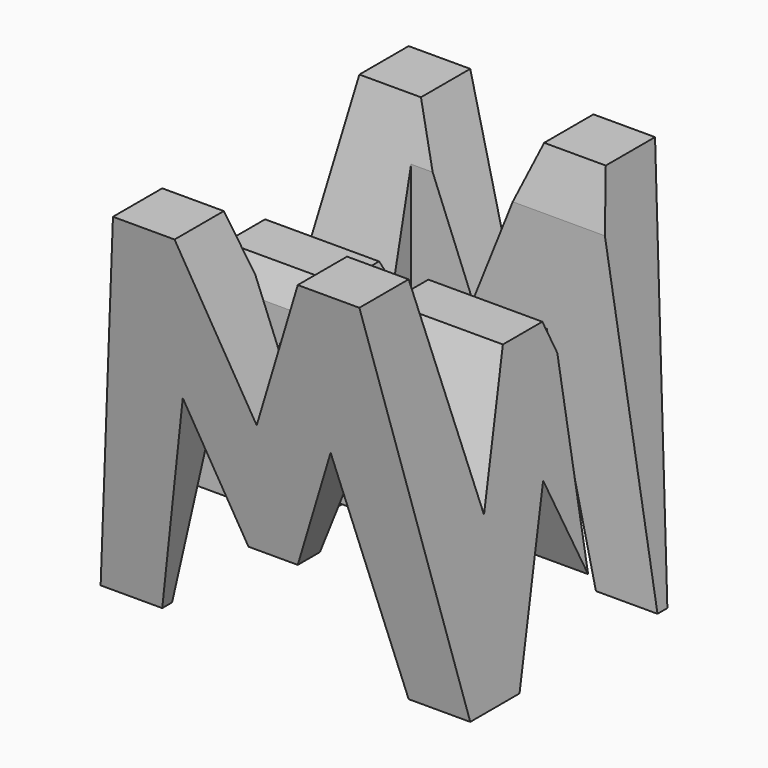
from build123d import *

# Parameters (mm, degrees)
F0_W      = 38.1
F0_H      = 38.1
F1_DEPTH  = 38.1
F6_DEPTH  = 38.1
F8_DEPTH  = 38.1
F9_W      = 25.4
F9_H      = 7.62
F10_DEPTH = 38.1


with BuildPart() as f1:
    # F0 (on Front) → F1 (new body)
    with BuildSketch(Plane.XZ):
        with Locations((19.05, 19.05)):
            Rectangle(F0_W, F0_H)
    extrude(amount=F1_DEPTH)

    # F5 (on offset) → F6 (cut)
    with BuildSketch(Plane.YZ.offset(38.1)):
        Polygon((-38.1, 0), (-31.75, 0), (-38.1, 38.1), align=None)
        Polygon((-11.43, 15.875), (-6.35, 38.1), (-31.75, 38.1), (-26.67, 15.875), (-21.59, 28.575), (-16.51, 28.575), align=None)
        Polygon((-25.4, 0), (-12.7, 0), (-19.05, 15.875), align=None)
        Polygon((-6.35, 0), (0, 0), (0, 38.1), align=None)
    extrude(amount=-F6_DEPTH, mode=Mode.SUBTRACT)

    # F7 (on offset) → F8 (cut)
    with BuildSketch(Plane.XZ.offset(38.1)):
        Polygon((11.43, 22.225), (6.35, 0), (31.75, 0), (26.67, 22.225), (21.59, 9.525), (16.51, 9.525), align=None)
        Polygon((31.75, 38.1), (38.1, 0), (38.1, 38.1), align=None)
        Polygon((25.4, 38.1), (12.7, 38.1), (19.05, 22.225), align=None)
        Polygon((0, 38.1), (0, 0), (6.35, 38.1), align=None)
    extrude(amount=-F8_DEPTH, mode=Mode.SUBTRACT)

    # F9 (on offset) → F10 (cut)
    with BuildSketch(Plane.XY.offset(38.1)):
        with Locations((25.4, -11.43)):
            Rectangle(F9_W, F9_H)
        with Locations((12.7, -26.67)):
            Rectangle(F9_W, F9_H)
    extrude(amount=-F10_DEPTH, mode=Mode.SUBTRACT)


solid = f1.part
